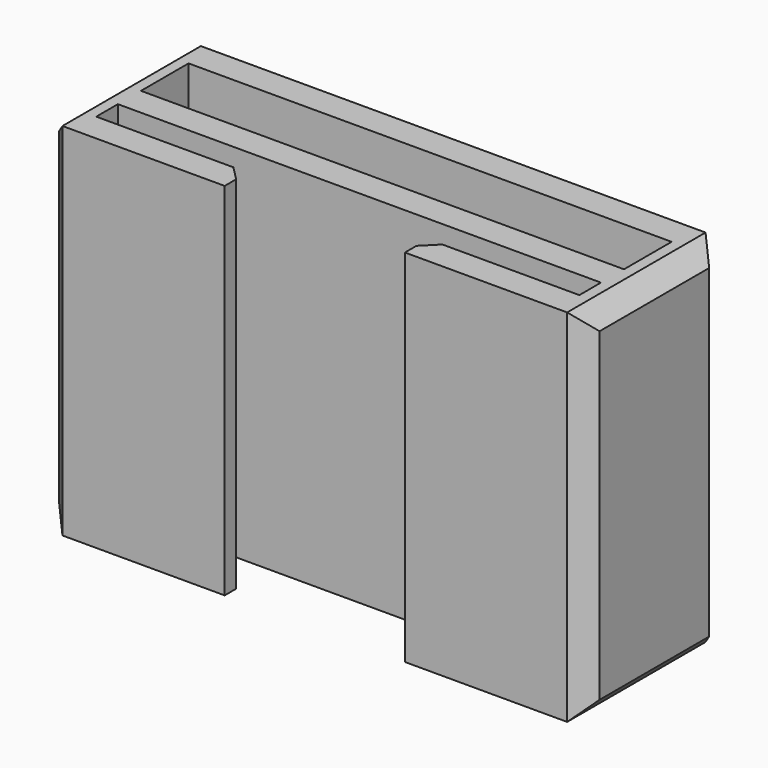
from build123d import *

# Parameters (mm, degrees)
F1_DEPTH = 20
F2_SIZE  = 0.8
F3_SIZE  = 1


with BuildPart() as f1:
    # F0 (on Top) → F1 (new body)
    with BuildSketch(Plane.XY):
        Polygon((-15, 4.9), (-15, 0), (-13.403978, 0), (-13.403978, 3.3), (13.396022, 3.3), (13.396022, 0), (15, 0), (15, 4.9), align=None)
        Polygon((-13.403978, 0), (-15, 0), (-15, -4.7), (-5, -4.7), (-5, -3.1), (-13.403978, -3.1), (-13.403978, -1.6), (13.396022, -1.600005), (13.399751, -3.1), (5, -3.1), (5, -4.7), (15, -4.7), (15, 0), (13.396022, 0), align=None)
    extrude(amount=F1_DEPTH)

    # F2
    f2_edges = [f1.edges().sort_by_distance(p)[0] for p in [
        (-5, -3.1, 10),
        (5, -3.1, 10),
    ]]
    chamfer(f2_edges, length=F2_SIZE)

    # F3
    f3_edges = [f1.edges().sort_by_distance(p)[0] for p in [
        (-15, 4.9, 10),
        (-15, 0.1, 20),
        (-15, -4.7, 10),
        (-15, 0.1, 0),
        (15, 4.9, 10),
        (15, 0.1, 0),
        (15, -4.7, 10),
        (15, 0.1, 20),
    ]]
    chamfer(f3_edges, length=F3_SIZE)


solid = f1.part
